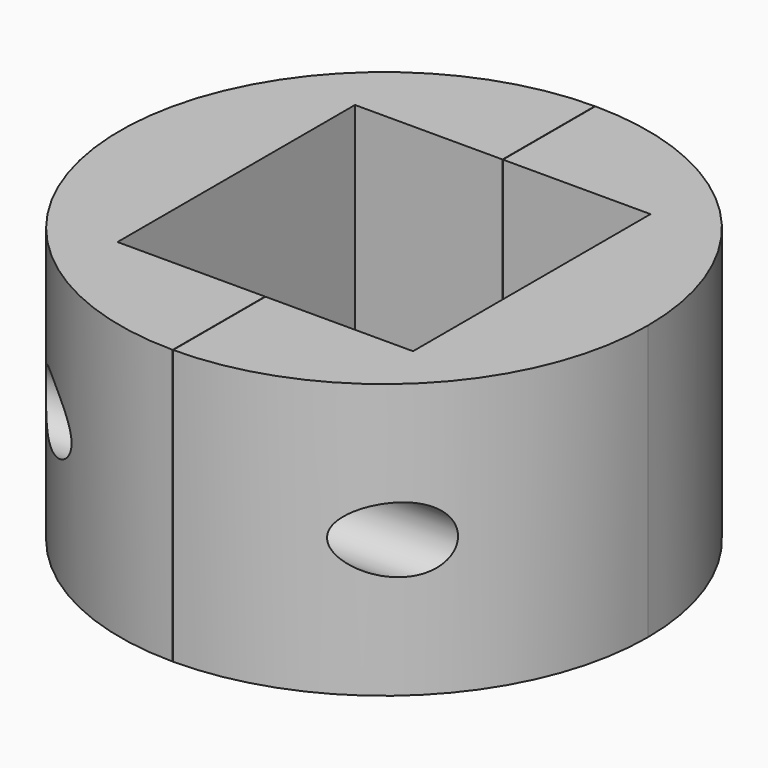
from build123d import *

# Parameters (mm, degrees)
F0_R     = 20
F0_W     = 22.4
F0_H     = 22.5
F1_DEPTH = 20.8
F3_R     = 2.5
F4_DEPTH = 40.001
F5_W     = 0.03
F5_H     = 50
F6_DEPTH = 20.801


with BuildPart() as f1:
    # F0 (on Top) → F1 (new body)
    with BuildSketch(Plane.XY):
        Circle(F0_R)
        Rectangle(F0_W, F0_H, mode=Mode.SUBTRACT)
    extrude(amount=F1_DEPTH)

    # F3 (on offset) → F4 (cut, through all)
    with BuildSketch(Plane.YZ.offset(20)):
        with Locations((-15, 10.4)):
            Circle(F3_R)
        with Locations((15, 10.4)):
            Circle(F3_R)
    extrude(amount=-F4_DEPTH, mode=Mode.SUBTRACT)

    # F5 (on face) → F6 (cut, through all)
    with BuildSketch(Plane.XY.offset(20.8)):
        Rectangle(F5_W, F5_H)
    extrude(amount=-F6_DEPTH, mode=Mode.SUBTRACT)


solid = f1.part
